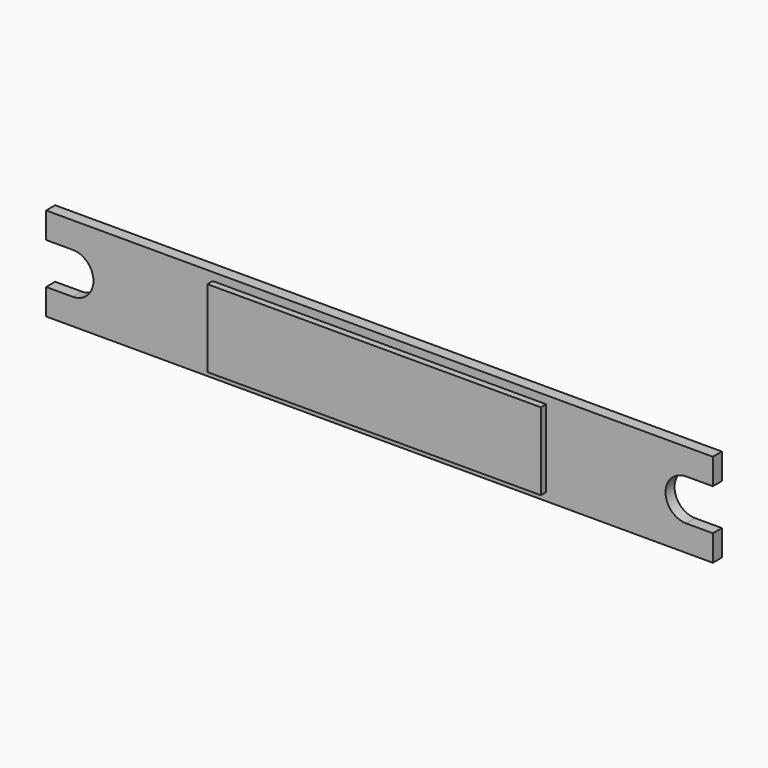
from build123d import *

# Parameters (mm, degrees)
F0_W     = 25
F0_H     = 5.803798
F1_DEPTH = 1.35
F2_DEPTH = 0.85


with BuildPart() as f1:
    # F0 (on Front) → F1 (new body)
    with BuildSketch(Plane.XZ):
        Rectangle(F0_W, F0_H)
    extrude(amount=F1_DEPTH)

    # F0 (on Front) → F2 (join)
    with BuildSketch(Plane.XZ):
        with BuildLine():
            Line((25, 1.55), (25, 3.5))
            Line((25, 3.5), (-25, 3.5))
            Line((-25, 3.5), (-25, 1.55))
            Line((-25, 1.55), (-23, 1.55))
            ThreePointArc((-23, 1.55), (-21.45, 0), (-23, -1.55))
            Line((-23, -1.55), (-25, -1.55))
            Line((-25, -1.55), (-25, -3.5))
            Line((-25, -3.5), (25, -3.5))
            Line((25, -3.5), (25, -1.55))
            Line((25, -1.55), (23, -1.55))
            ThreePointArc((23, -1.55), (21.45, 0), (23, 1.55))
            Line((23, 1.55), (25, 1.55))
        make_face()
        Rectangle(F0_W, F0_H, mode=Mode.SUBTRACT)
    extrude(amount=F2_DEPTH)


solid = f1.part
